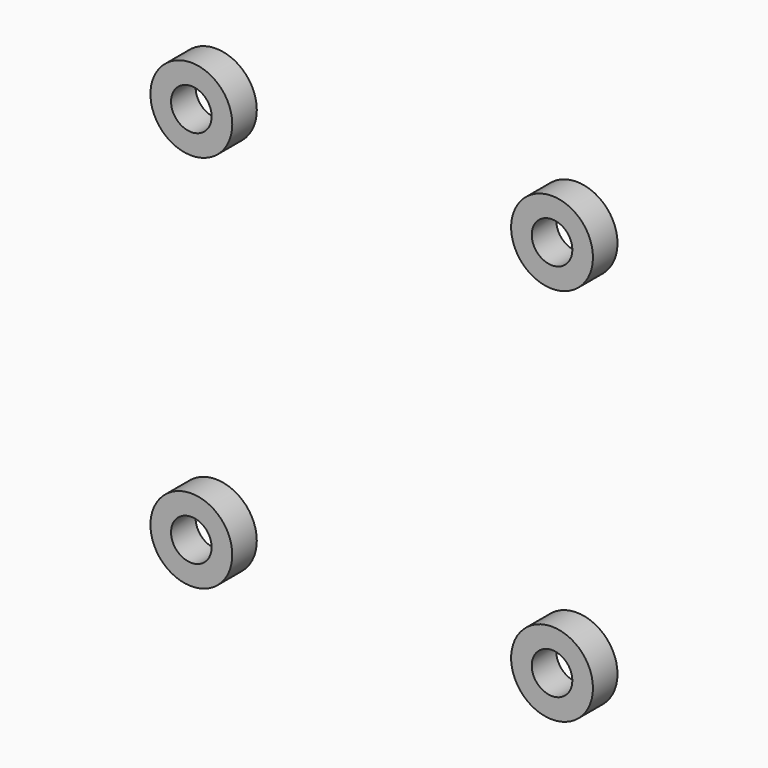
from build123d import *

# Parameters (mm, degrees)
F0_R     = 10.16
F0_R_2   = 5.0419
F1_DEPTH = 7.62


with BuildPart() as f1:
    # F0 (on Front) → F1 (new body)
    with BuildSketch(Plane.XZ):
        with Locations((-44.78489, 47.08155)):
            Circle(F0_R)
        with Locations((-44.78489, 47.08155)):
            Circle(F0_R_2, mode=Mode.SUBTRACT)
        with Locations((44.78489, 47.08155)):
            Circle(F0_R)
        with Locations((44.78489, 47.08155)):
            Circle(F0_R_2, mode=Mode.SUBTRACT)
        with Locations((-44.78489, -47.08155)):
            Circle(F0_R)
        with Locations((-44.78489, -47.08155)):
            Circle(F0_R_2, mode=Mode.SUBTRACT)
        with Locations((44.78489, -47.08155)):
            Circle(F0_R)
        with Locations((44.78489, -47.08155)):
            Circle(F0_R_2, mode=Mode.SUBTRACT)
    extrude(amount=F1_DEPTH)


solid = f1.part
